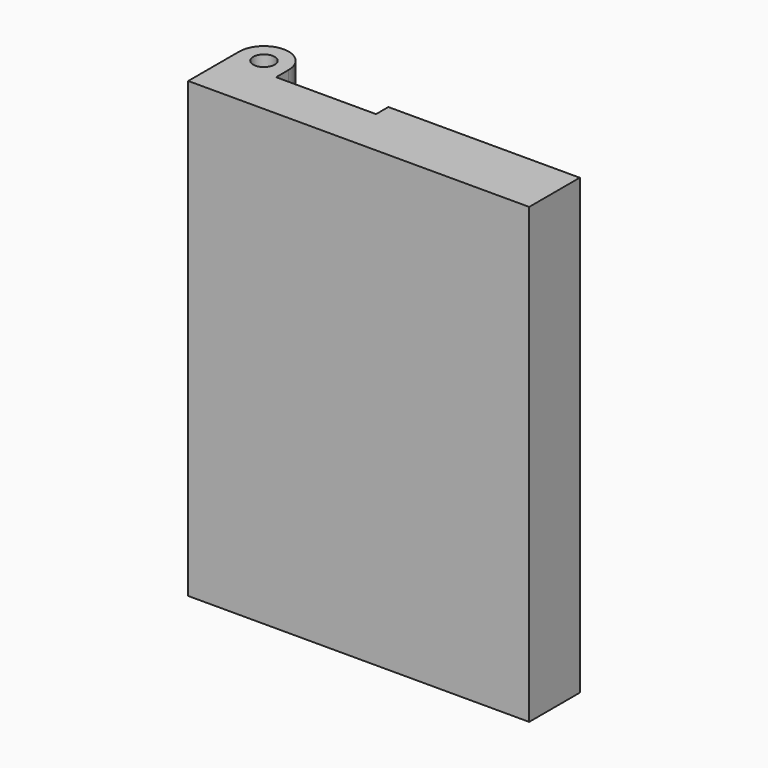
from build123d import *

# Parameters (mm, degrees)
F1_DEPTH = 150
F2_R     = 3.550494
F3_DEPTH = 25


with BuildPart() as f1:
    # F0 (on Top) → F1 (new body)
    with BuildSketch(Plane.XY):
        with BuildLine():
            ThreePointArc((-40.709373, 9.470587), (-48.766435, 17.810353), (-57.106201, 9.753291))
            Line((-57.106201, 9.753291), (-57.106201, 9.470587))
            Line((-57.106201, 9.470587), (-57.106201, -11.449506))
            Line((-57.106201, -11.449506), (55.692676, -11.449506))
            Line((55.692676, -11.449506), (55.692676, 9.470587))
            Line((55.692676, 9.470587), (-7.633011, 9.470587))
            Line((-7.633011, 9.470587), (-7.633011, 4.381915))
            Line((-7.633011, 4.381915), (-40.709373, 4.381915))
            Line((-40.709373, 4.381915), (-40.709373, 9.470587))
        make_face()
        with BuildLine():
            Line((-57.106201, 9.470587), (-57.106201, 9.753291))
            ThreePointArc((-57.106201, 9.753291), (-57.107419, 9.611939), (-57.106201, 9.470587))
        make_face()
    extrude(amount=F1_DEPTH)

    # F2 (on face) → F3 (cut)
    with BuildSketch(Plane.XY.offset(150)):
        with Locations((-48.907787, 9.611939)):
            Circle(F2_R)
    extrude(amount=-F3_DEPTH, mode=Mode.SUBTRACT)


solid = f1.part
